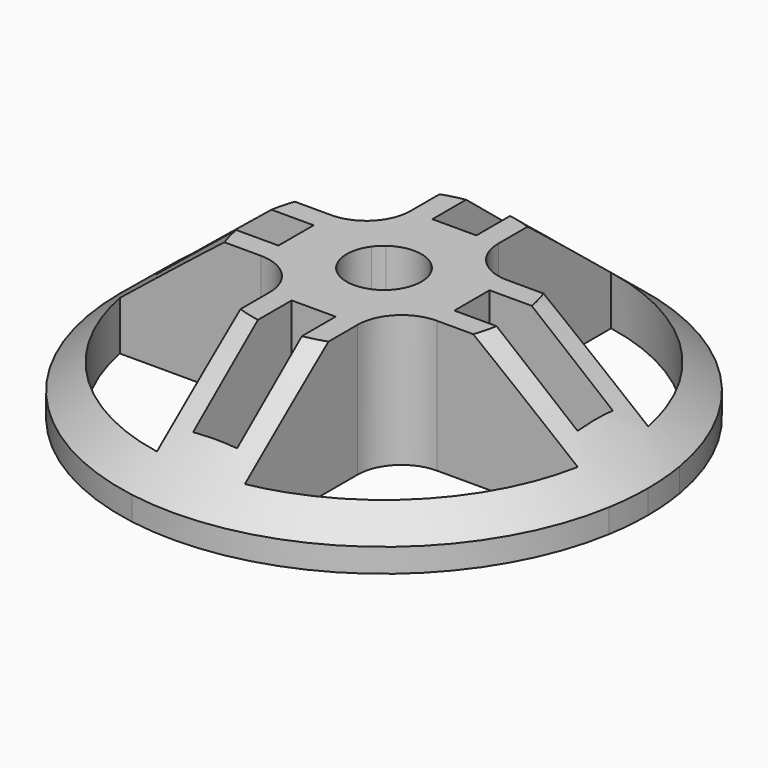
from build123d import *

# Parameters (mm, degrees)
F1_W     = 5
F1_H     = 2.5
F1_W_2   = 2.5
F1_H_2   = 5
F2_DEPTH = 15
F5_R     = 5


with BuildPart() as f2:
    # F1 (on Top) → F2 (new body)
    with BuildSketch(Plane.XY):
        with BuildLine():
            ThreePointArc((-26.0240273593, 5), (-18.7383297014, 18.7383297014), (-5, 26.0240273593))
            Line((-5, 26.0240273593), (-5, 29.5803989155))
            ThreePointArc((-5, 29.5803989155), (-21.2132034356, 21.2132034356), (-29.5803989155, 5))
            Line((-29.5803989155, 5), (-26.0240273593, 5))
        make_face()
        with BuildLine():
            ThreePointArc((-26.0240273593, -5), (-26.5, 0), (-26.0240273593, 5))
            Line((-26.0240273593, 5), (-29.5803989155, 5))
            ThreePointArc((-29.5803989155, 5), (-30, 0), (-29.5803989155, -5))
            Line((-29.5803989155, -5), (-26.0240273593, -5))
        make_face()
        with BuildLine():
            Line((-5, -29.5803989155), (-5, -26.0240273593))
            ThreePointArc((-5, -26.0240273593), (-18.7383297014, -18.7383297014), (-26.0240273593, -5))
            Line((-26.0240273593, -5), (-29.5803989155, -5))
            ThreePointArc((-29.5803989155, -5), (-21.2132034356, -21.2132034356), (-5, -29.5803989155))
        make_face()
        with BuildLine():
            Line((-24, 2.5), (-10, 2.5))
            Line((-10, 2.5), (-10, 5))
            Line((-10, 5), (-26.0240273593, 5))
            ThreePointArc((-26.0240273593, 5), (-26.5, 0), (-26.0240273593, -5))
            Line((-26.0240273593, -5), (-10, -5))
            Line((-10, -5), (-10, -2.5))
            Line((-10, -2.5), (-24, -2.5))
            Line((-24, -2.5), (-24, 2.5))
        make_face()
        with BuildLine():
            Line((5, -10), (2.5, -10))
            Line((2.5, -10), (2.5, -24))
            Line((2.5, -24), (-2.5, -24))
            Line((-2.5, -24), (-2.5, -10))
            Line((-2.5, -10), (-5, -10))
            Line((-5, -10), (-5, -26.0240273593))
            ThreePointArc((-5, -26.0240273593), (0, -26.5), (5, -26.0240273593))
            Line((5, -26.0240273593), (5, -10))
        make_face()
        with BuildLine():
            Line((10, 5), (10, 2.5))
            Line((10, 2.5), (24, 2.5))
            Line((24, 2.5), (24, -2.5))
            Line((24, -2.5), (10, -2.5))
            Line((10, -2.5), (10, -5))
            Line((10, -5), (26.0240273593, -5))
            ThreePointArc((26.0240273593, -5), (26.3807384755, -2.5113019509), (26.5, 0))
            ThreePointArc((26.5, 0), (26.3807384755, 2.5113019509), (26.0240273593, 5))
            Line((26.0240273593, 5), (10, 5))
        make_face()
        with BuildLine():
            Line((2.5, 24), (2.5, 10))
            Line((2.5, 10), (5, 10))
            Line((5, 10), (5, 26.0240273593))
            ThreePointArc((5, 26.0240273593), (0, 26.5), (-5, 26.0240273593))
            Line((-5, 26.0240273593), (-5, 10))
            Line((-5, 10), (-2.5, 10))
            Line((-2.5, 10), (-2.5, 24))
            Line((-2.5, 24), (2.5, 24))
        make_face()
        with BuildLine():
            Line((5, 29.5803989155), (5, 26.0240273593))
            ThreePointArc((5, 26.0240273593), (18.7383297014, 18.7383297014), (26.0240273593, 5))
            Line((26.0240273593, 5), (29.5803989155, 5))
            ThreePointArc((29.5803989155, 5), (21.2132034356, 21.2132034356), (5, 29.5803989155))
        make_face()
        with BuildLine():
            ThreePointArc((-5, 26.0240273593), (0, 26.5), (5, 26.0240273593))
            Line((5, 26.0240273593), (5, 29.5803989155))
            ThreePointArc((5, 29.5803989155), (0, 30), (-5, 29.5803989155))
            Line((-5, 29.5803989155), (-5, 26.0240273593))
        make_face()
        with BuildLine():
            Line((29.5803989155, 5), (26.0240273593, 5))
            ThreePointArc((26.0240273593, 5), (26.3807384755, 2.5113019509), (26.5, 0))
            ThreePointArc((26.5, 0), (26.3807384755, -2.5113019509), (26.0240273593, -5))
            Line((26.0240273593, -5), (29.5803989155, -5))
            ThreePointArc((29.5803989155, -5), (29.8949156836, -2.5087878084), (30, 0))
            ThreePointArc((30, 0), (29.8949156836, 2.5087878084), (29.5803989155, 5))
        make_face()
        with BuildLine():
            ThreePointArc((2.5, 3.4369317712), (3.00520382, 3.00520382), (3.4369317712, 2.5))
            Line((3.4369317712, 2.5), (5, 2.5))
            Line((5, 2.5), (5, 5))
            Line((5, 5), (2.5, 5))
            Line((2.5, 5), (2.5, 3.4369317712))
        make_face()
        with BuildLine():
            ThreePointArc((-2.5, 3.4369317712), (0, 4.25), (2.5, 3.4369317712))
            Line((2.5, 3.4369317712), (2.5, 5))
            Line((2.5, 5), (-2.5, 5))
            Line((-2.5, 5), (-2.5, 3.4369317712))
        make_face()
        with BuildLine():
            ThreePointArc((-3.4369317712, 2.5), (-3.00520382, 3.00520382), (-2.5, 3.4369317712))
            Line((-2.5, 3.4369317712), (-2.5, 5))
            Line((-2.5, 5), (-5, 5))
            Line((-5, 5), (-5, 2.5))
            Line((-5, 2.5), (-3.4369317712, 2.5))
        make_face()
        with BuildLine():
            ThreePointArc((-3.4369317712, -2.5), (-4.25, 0), (-3.4369317712, 2.5))
            Line((-3.4369317712, 2.5), (-5, 2.5))
            Line((-5, 2.5), (-5, -2.5))
            Line((-5, -2.5), (-3.4369317712, -2.5))
        make_face()
        with BuildLine():
            Line((-2.5, -5), (-2.5, -3.4369317712))
            ThreePointArc((-2.5, -3.4369317712), (-3.00520382, -3.00520382), (-3.4369317712, -2.5))
            Line((-3.4369317712, -2.5), (-5, -2.5))
            Line((-5, -2.5), (-5, -5))
            Line((-5, -5), (-2.5, -5))
        make_face()
        with BuildLine():
            Line((2.5, -5), (2.5, -3.4369317712))
            ThreePointArc((2.5, -3.4369317712), (0, -4.25), (-2.5, -3.4369317712))
            Line((-2.5, -3.4369317712), (-2.5, -5))
            Line((-2.5, -5), (2.5, -5))
        make_face()
        with BuildLine():
            Line((5, -2.5), (3.4369317712, -2.5))
            ThreePointArc((3.4369317712, -2.5), (3.00520382, -3.00520382), (2.5, -3.4369317712))
            Line((2.5, -3.4369317712), (2.5, -5))
            Line((2.5, -5), (5, -5))
            Line((5, -5), (5, -2.5))
        make_face()
        with BuildLine():
            ThreePointArc((3.4369317712, 2.5), (4.041624675, 1.3144466464), (4.25, 0))
            ThreePointArc((4.25, 0), (4.041624675, -1.3144466464), (3.4369317712, -2.5))
            Line((3.4369317712, -2.5), (5, -2.5))
            Line((5, -2.5), (5, 2.5))
            Line((5, 2.5), (3.4369317712, 2.5))
        make_face()
        with BuildLine():
            ThreePointArc((26.0240273593, -5), (18.7383297014, -18.7383297014), (5, -26.0240273593))
            Line((5, -26.0240273593), (5, -29.5803989155))
            ThreePointArc((5, -29.5803989155), (21.2132034356, -21.2132034356), (29.5803989155, -5))
            Line((29.5803989155, -5), (26.0240273593, -5))
        make_face()
        with BuildLine():
            Line((5, -29.5803989155), (5, -26.0240273593))
            ThreePointArc((5, -26.0240273593), (0, -26.5), (-5, -26.0240273593))
            Line((-5, -26.0240273593), (-5, -29.5803989155))
            ThreePointArc((-5, -29.5803989155), (0, -30), (5, -29.5803989155))
        make_face()
        with Locations((-7.5, 3.75)):
            Rectangle(F1_W, F1_H)
        with BuildLine():
            ThreePointArc((-3.4369317712, 2.5), (-3.00520382, 3.00520382), (-2.5, 3.4369317712))
            Line((-2.5, 3.4369317712), (-2.5, 5))
            Line((-2.5, 5), (-5, 5))
            Line((-5, 5), (-5, 2.5))
            Line((-5, 2.5), (-3.4369317712, 2.5))
        make_face()
        with BuildLine():
            ThreePointArc((2.5, 3.4369317712), (3.00520382, 3.00520382), (3.4369317712, 2.5))
            Line((3.4369317712, 2.5), (5, 2.5))
            Line((5, 2.5), (5, 5))
            Line((5, 5), (2.5, 5))
            Line((2.5, 5), (2.5, 3.4369317712))
        make_face()
        with Locations((7.5, 3.75)):
            Rectangle(F1_W, F1_H)
        with Locations((3.75, -7.5)):
            Rectangle(F1_W_2, F1_H_2)
        with Locations((0, -7.5)):
            Rectangle(F1_W, F1_H_2)
        with Locations((-3.75, -7.5)):
            Rectangle(F1_W_2, F1_H_2)
        with BuildLine():
            Line((5, -2.5), (3.4369317712, -2.5))
            ThreePointArc((3.4369317712, -2.5), (3.00520382, -3.00520382), (2.5, -3.4369317712))
            Line((2.5, -3.4369317712), (2.5, -5))
            Line((2.5, -5), (5, -5))
            Line((5, -5), (5, -2.5))
        make_face()
        with BuildLine():
            Line((-2.5, -5), (-2.5, -3.4369317712))
            ThreePointArc((-2.5, -3.4369317712), (-3.00520382, -3.00520382), (-3.4369317712, -2.5))
            Line((-3.4369317712, -2.5), (-5, -2.5))
            Line((-5, -2.5), (-5, -5))
            Line((-5, -5), (-2.5, -5))
        make_face()
        with Locations((-7.5, -3.75)):
            Rectangle(F1_W, F1_H)
        with Locations((7.5, -3.75)):
            Rectangle(F1_W, F1_H)
        with Locations((3.75, 7.5)):
            Rectangle(F1_W_2, F1_H_2)
        with Locations((0, 7.5)):
            Rectangle(F1_W, F1_H_2)
        with Locations((-7.5, 0)):
            Rectangle(F1_W, F1_H_2)
        with Locations((7.5, 0)):
            Rectangle(F1_W, F1_H_2)
        with Locations((-3.75, 7.5)):
            Rectangle(F1_W_2, F1_H_2)
    extrude(amount=F2_DEPTH)

    # F3 (on Front) → F4 (revolve, cut)
    with BuildSketch(Plane.XZ):
        Polygon((-30, 15), (-30, 2.7), (-15, 15), align=None)
    revolve(axis=Axis((0, 0, 7.5), (0, 0, 1)), mode=Mode.SUBTRACT)

    # F5
    f5_edges = [f2.edges().sort_by_distance(p)[0] for p in [
        (5, 5, 7.5),
        (5, -5, 7.5),
        (-5, -5, 7.5),
        (-5, 5, 7.5),
    ]]
    fillet(f5_edges, radius=F5_R)


solid = f2.part
